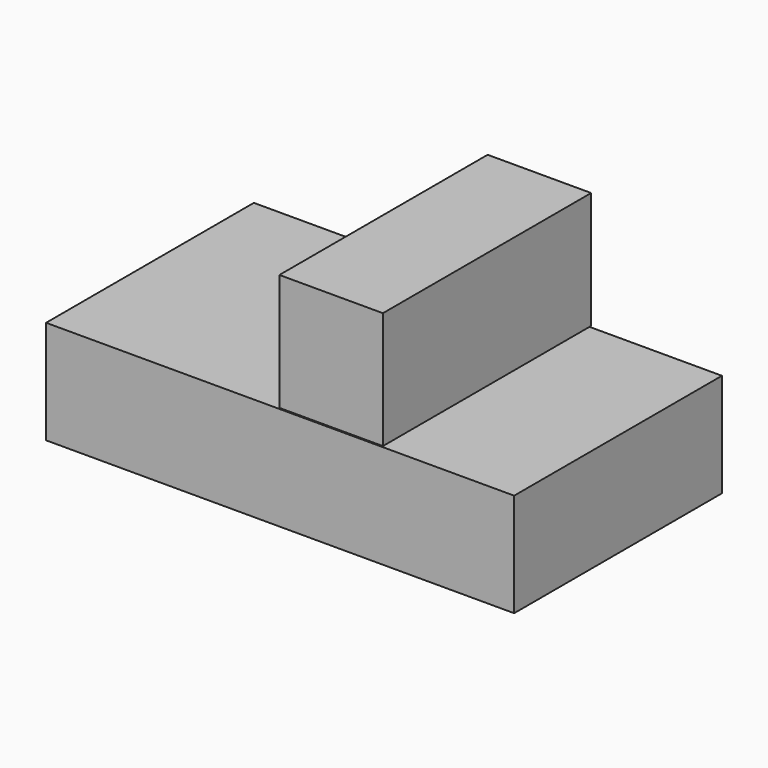
from build123d import *

# Parameters (mm, degrees)
F0_W     = 114.876136
F0_H     = 63.73693
F1_DEPTH = 25.4
F2_W     = 63.881688
F2_H     = 28.714493
F3_DEPTH = 25.4


with BuildPart() as f1:
    # F0 (on Top) → F1 (new body)
    with BuildSketch(Plane.XY):
        Rectangle(F0_W, F0_H)
    extrude(amount=F1_DEPTH)


with BuildPart() as f3:
    # F2 (on Right) → F3 (new body)
    with BuildSketch(Plane.YZ):
        with Locations((-0.14722, 40.13931)):
            Rectangle(F2_W, F2_H)
    extrude(amount=F3_DEPTH)


solid = Compound([f1.part, f3.part])
